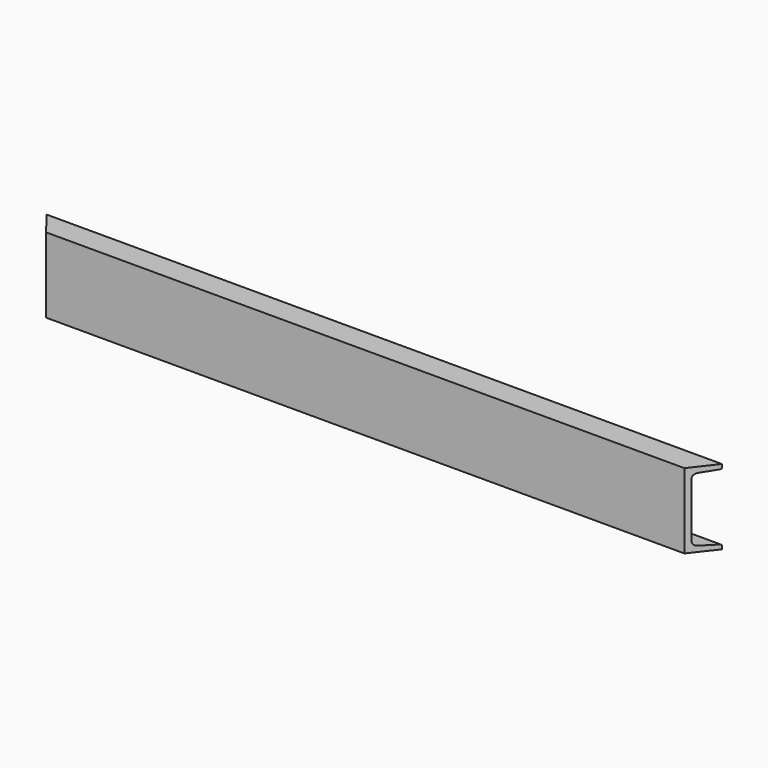
from build123d import *

# Parameters (mm, degrees)
F1_DEPTH = 927.1
F3_DEPTH = 203.201


with BuildPart() as f1:
    # F0 (on Right) → F1 (new body, symmetric)
    with BuildSketch(Plane.YZ):
        with BuildLine():
            Line((64.1858, 101.6), (0, 101.6))
            Line((0, 101.6), (0, -101.6))
            Line((0, -101.6), (64.1858, -101.6))
            Line((64.1858, -101.6), (64.1858, -92.636418))
            ThreePointArc((64.1858, -92.636418), (63.339447, -90.478171), (61.251608, -89.470563))
            Line((61.251608, -89.470563), (23.161034, -86.573234))
            ThreePointArc((23.161034, -86.573234), (15.482479, -82.8675), (12.3698, -74.93))
            Line((12.3698, -74.93), (12.3698, 74.93))
            ThreePointArc((12.3698, 74.93), (15.482479, 82.8675), (23.161034, 86.573234))
            Line((23.161034, 86.573234), (61.251608, 89.470563))
            ThreePointArc((61.251608, 89.470563), (63.339447, 90.478171), (64.1858, 92.636418))
            Line((64.1858, 92.636418), (64.1858, 101.6))
        make_face()
    extrude(amount=F1_DEPTH, both=True)

    # F2 (on face) → F3 (cut, through all)
    with BuildSketch(Plane.XY.offset(101.6)):
        Polygon((-913.186131, 64.1858), (-927.1, 64.1858), (-927.1, 0), (-863.12883, 0), align=None)
        Polygon((927.1, 0), (927.1, 64.1858), (913.186131, 64.1858), (863.12883, 0), align=None)
    extrude(amount=-F3_DEPTH, mode=Mode.SUBTRACT)


solid = f1.part
